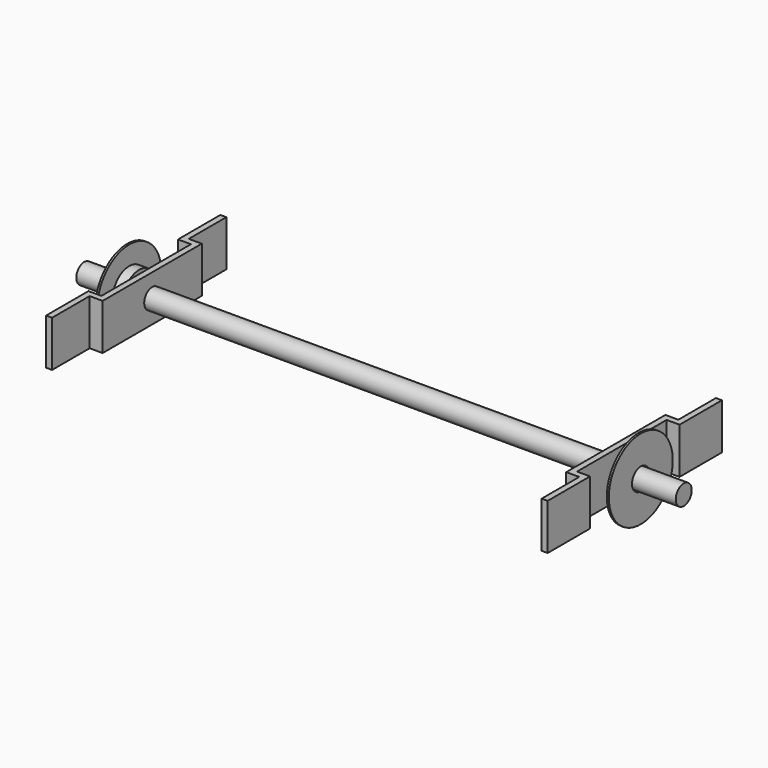
from build123d import *

# Parameters (mm, degrees)
F2_R          = 10
F3_DEPTH      = 300
F6_DEPTH      = 23
F6_DEPTH_BACK = 23


with BuildPart() as f3:
    # F2 (on offset) → F3 (new body)
    with BuildSketch(Plane.YZ.offset(300)):
        Circle(F2_R)
    extrude(amount=-F3_DEPTH)



with BuildPart() as f5:
    # F4 (on Top) → F5 (revolve)
    with BuildSketch(Plane.XY):
        Polygon((257, -40), (257, -11), (245, -11), (245, -21), (255, -21), (255, -40), align=None)
    revolve(axis=Axis((231.2679007649, 0, 0), (-1, 0, 0)))


with BuildPart() as f6:
    # F4 (on Top) → F6 (new body, two sides)
    with BuildSketch(Plane.XY) as f6_sk:
        Polygon((238, -56), (238, -10), (238, 0), (232, 0), (232, -10), (232, -62), (238, -62), (245, -62), (245, -109), (251, -109), (251, -56), align=None)
    extrude(amount=F6_DEPTH)
    extrude(f6_sk.sketch, amount=-F6_DEPTH_BACK)


with BuildPart() as f3_1:
    add(f3.part)

    add(f6.part)  # F7 merges F6
    # F7: F6 across face
    add(f6.part.mirror(Plane(origin=(235, 0, 0), x_dir=(-1, 0, 0), z_dir=(0, 1, 0))))

    # F8: F3, F5 across plane


with BuildPart() as f3_2:
    add(f3_1.part)
    add(f3_1.part.mirror(Plane.YZ))
    add(f5.part.mirror(Plane.YZ))


solid = Compound([f5.part, f3_2.part])
